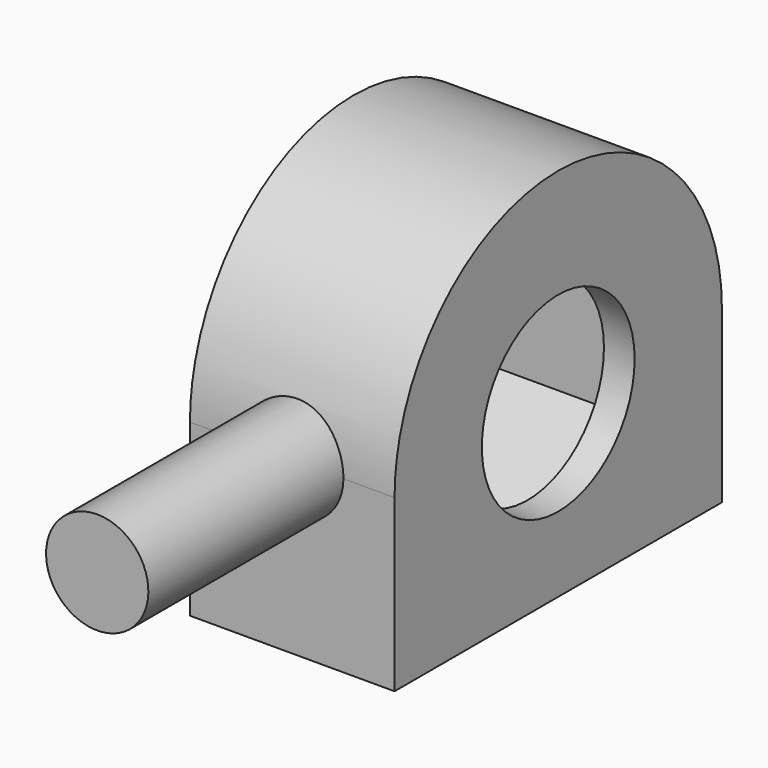
from build123d import *

# Parameters (mm, degrees)
F0_W     = 2.35
F0_H     = 1.5
F1_DEPTH = 2.1
F2_START = -2.1
F0_R     = 2.8
F2_DEPTH = 0.9


with BuildPart() as f1:
    # F0 (on Right) → F1 (new body, symmetric)
    with BuildSketch(Plane.YZ):
        with BuildLine():
            Line((-3.65, 1.5), (-3.65, 2.1073284825))
            Line((-3.65, 2.1073284825), (0, 4.2146569651))
            Line((0, 4.2146569651), (3.65, 2.1073284825))
            Line((3.65, 2.1073284825), (3.65, -2.1073284825))
            Line((3.65, -2.1073284825), (0, -4.2146569651))
            Line((0, -4.2146569651), (-3.65, -2.1073284825))
            Line((-3.65, -2.1073284825), (-3.65, -1.5))
            Line((-3.65, -1.5), (-6, -1.5))
            Line((-6, -1.5), (-6, -5))
            Line((-6, -5), (6, -5))
            Line((6, -5), (6, 0))
            ThreePointArc((6, 0), (4.2426406871, 4.2426406871), (0, 6))
            ThreePointArc((0, 6), (-3.6742346142, 4.7434164903), (-5.8094750193, 1.5))
            Line((-5.8094750193, 1.5), (-3.65, 1.5))
        make_face()
        with Locations((-4.825, -0.75)):
            Rectangle(F0_W, F0_H)
        with BuildLine():
            Line((-3.65, 0), (-3.65, 1.5))
            Line((-3.65, 1.5), (-5.8094750193, 1.5))
            ThreePointArc((-5.8094750193, 1.5), (-5.9521781776, 0.7560257549), (-6, 0))
            Line((-6, 0), (-3.65, 0))
        make_face()
    extrude(amount=F1_DEPTH, both=True)

    # F0 (on Right) → F2 (join)
    with BuildSketch(Plane.YZ.offset(F2_START)):
        with BuildLine():
            Line((-3.65, 0), (-3.65, 1.5))
            Line((-3.65, 1.5), (-5.8094750193, 1.5))
            ThreePointArc((-5.8094750193, 1.5), (-5.9521781776, 0.7560257549), (-6, 0))
            Line((-6, 0), (-3.65, 0))
        make_face()
        with Locations((-4.825, -0.75)):
            Rectangle(F0_W, F0_H)
        with BuildLine():
            Line((-3.65, 1.5), (-3.65, 2.1073284825))
            Line((-3.65, 2.1073284825), (0, 4.2146569651))
            Line((0, 4.2146569651), (3.65, 2.1073284825))
            Line((3.65, 2.1073284825), (3.65, -2.1073284825))
            Line((3.65, -2.1073284825), (0, -4.2146569651))
            Line((0, -4.2146569651), (-3.65, -2.1073284825))
            Line((-3.65, -2.1073284825), (-3.65, -1.5))
            Line((-3.65, -1.5), (-6, -1.5))
            Line((-6, -1.5), (-6, -5))
            Line((-6, -5), (6, -5))
            Line((6, -5), (6, 0))
            ThreePointArc((6, 0), (4.2426406871, 4.2426406871), (0, 6))
            ThreePointArc((0, 6), (-3.6742346142, 4.7434164903), (-5.8094750193, 1.5))
            Line((-5.8094750193, 1.5), (-3.65, 1.5))
        make_face()
        Polygon((0, 4.2146569651), (-3.65, 2.1073284825), (-3.65, 1.5), (-3.65, 0), (-3.65, -1.5), (-3.65, -2.1073284825), (0, -4.2146569651), (3.65, -2.1073284825), (3.65, 2.1073284825), align=None)
        Circle(F0_R, mode=Mode.SUBTRACT)
    extrude(amount=-F2_DEPTH)

    # F0 (on Right) → F3 (revolve)
    with BuildSketch(Plane.YZ):
        with BuildLine():
            ThreePointArc((-6, 0), (-5.9521781776, 0.7560257549), (-5.8094750193, 1.5))
            Line((-5.8094750193, 1.5), (-13.15, 1.5))
            Line((-13.15, 1.5), (-13.15, 0))
            Line((-13.15, 0), (-6, 0))
        make_face()
        with BuildLine():
            Line((-3.65, 0), (-3.65, 1.5))
            Line((-3.65, 1.5), (-5.8094750193, 1.5))
            ThreePointArc((-5.8094750193, 1.5), (-5.9521781776, 0.7560257549), (-6, 0))
            Line((-6, 0), (-3.65, 0))
        make_face()
    revolve(axis=Axis((0, -8.4, 0), (0, 1, 0)))

    # F4: F1 across plane


with BuildPart() as f1_1:
    add(f1.part)
    add(f1.part.mirror(Plane.YZ))


solid = f1_1.part
